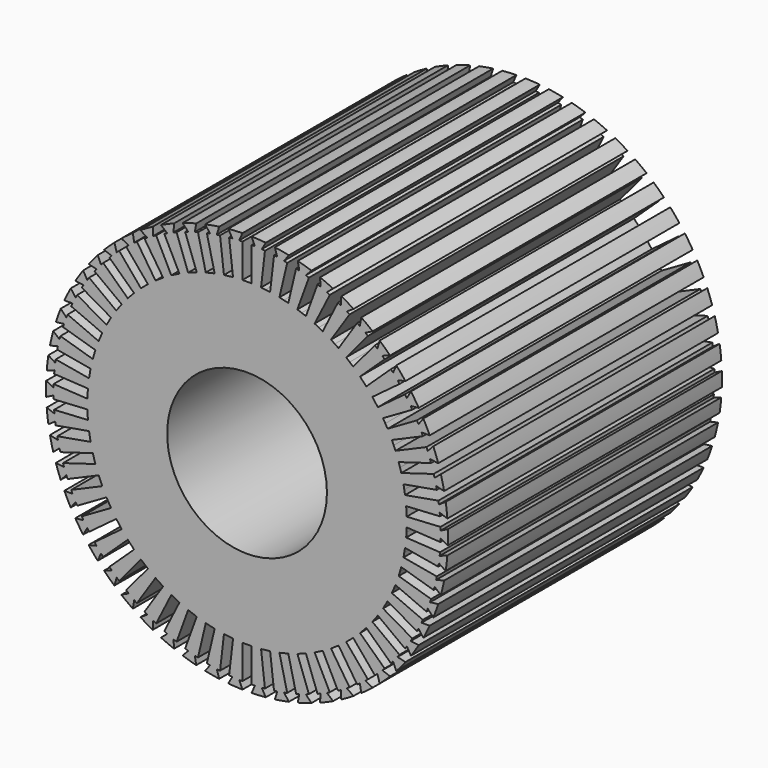
from build123d import *

# Parameters (mm, degrees)
F0_R     = 98
F1_DEPTH = 420


with BuildPart() as f1:
    # F0 (on Front) → F1 (new body)
    with BuildSketch(Plane.XZ):
        with BuildLine():
            Line((-9.6, 237.27123), (-5.6, 246.436381))
            ThreePointArc((-5.6, 246.436381), (-14.332701, 246.082961), (-23.047384, 245.420187))
            Line((-23.047384, 245.420187), (-18.010421, 236.781379))
            Line((-18.010421, 236.781379), (-21.983375, 236.317007))
            Line((-21.983375, 236.317007), (-17.173082, 195.162326))
            Line((-17.173082, 195.162326), (-22.735217, 194.512206))
            Line((-22.735217, 194.512206), (-28.297352, 193.862085))
            Line((-28.297352, 193.862085), (-33.107644, 235.016766))
            Line((-33.107644, 235.016766), (-37.080598, 234.552395))
            Line((-37.080598, 234.552395), (-34.171653, 244.119946))
            ThreePointArc((-34.171653, 244.119946), (-42.804277, 242.755111), (-51.38309, 241.085105))
            Line((-51.38309, 241.085105), (-45.377281, 233.089465))
            Line((-45.377281, 233.089465), (-49.269461, 232.167002))
            Line((-49.269461, 232.167002), (-39.713927, 191.849035))
            Line((-39.713927, 191.849035), (-45.162978, 190.557586))
            Line((-45.162978, 190.557586), (-50.61203, 189.266137))
            Line((-50.61203, 189.266137), (-60.167563, 229.584104))
            Line((-60.167563, 229.584104), (-64.059743, 228.661641))
            Line((-64.059743, 228.661641), (-62.281193, 238.502208))
            ThreePointArc((-62.281193, 238.502208), (-70.696998, 236.144415), (-79.023929, 233.489761))
            Line((-79.023929, 233.489761), (-72.130492, 226.245417))
            Line((-72.130492, 226.245417), (-75.889262, 224.877336))
            Line((-75.889262, 224.877336), (-61.717709, 185.941315))
            Line((-61.717709, 185.941315), (-66.979988, 184.026002))
            Line((-66.979988, 184.026002), (-72.242267, 182.110689))
            Line((-72.242267, 182.110689), (-86.41382, 221.046711))
            Line((-86.41382, 221.046711), (-90.17259, 219.67863))
            Line((-90.17259, 219.67863), (-89.548486, 229.659136))
            ThreePointArc((-89.548486, 229.659136), (-97.633663, 226.34027), (-105.596104, 222.736869))
            Line((-105.596104, 222.736869), (-97.908261, 216.341787))
            Line((-97.908261, 216.341787), (-101.482791, 214.546591))
            Line((-101.482791, 214.546591), (-82.886865, 177.519058))
            Line((-82.886865, 177.519058), (-87.891208, 175.005782))
            Line((-87.891208, 175.005782), (-92.895551, 172.492507))
            Line((-92.895551, 172.492507), (-111.491477, 209.52004))
            Line((-111.491477, 209.52004), (-115.066008, 207.724843))
            Line((-115.066008, 207.724843), (-115.604789, 217.710318))
            ThreePointArc((-115.604789, 217.710318), (-123.250001, 213.475262), (-130.740273, 208.971843))
            Line((-130.740273, 208.971843), (-122.361989, 203.512506))
            Line((-122.361989, 203.512506), (-125.70394, 201.31447))
            Line((-125.70394, 201.31447), (-102.935119, 166.696159))
            Line((-102.935119, 166.696159), (-107.61385, 163.618909))
            Line((-107.61385, 163.618909), (-112.292582, 160.541659))
            Line((-112.292582, 160.541659), (-135.061403, 195.15997))
            Line((-135.061403, 195.15997), (-138.403355, 192.961934))
            Line((-138.403355, 192.961934), (-140.097736, 202.817342))
            ThreePointArc((-140.097736, 202.817342), (-147.199594, 197.723367), (-154.116404, 192.380831))
            Line((-154.116404, 192.380831), (-145.160981, 187.931068))
            Line((-145.160981, 187.931068), (-148.225158, 185.359917))
            Line((-148.225158, 185.359917), (-121.591351, 153.618982))
            Line((-121.591351, 153.618982), (-125.8812, 150.019371))
            Line((-125.8812, 150.019371), (-130.171049, 146.419761))
            Line((-130.171049, 146.419761), (-156.804856, 178.160696))
            Line((-156.804856, 178.160696), (-159.869034, 175.589546))
            Line((-159.869034, 175.589546), (-162.696102, 185.181609))
            ThreePointArc((-162.696102, 185.181609), (-169.158564, 179.297602), (-175.408375, 173.188198))
            Line((-175.408375, 173.188198), (-165.996919, 169.808184))
            Line((-165.996919, 169.808184), (-168.741886, 166.898689))
            Line((-168.741886, 166.898689), (-138.603269, 138.464371))
            Line((-138.603269, 138.464371), (-142.446222, 134.391079))
            Line((-142.446222, 134.391079), (-146.289175, 130.317786))
            Line((-146.289175, 130.317786), (-176.427792, 158.752104))
            Line((-176.427792, 158.752104), (-179.172759, 155.84261))
            Line((-179.172759, 155.84261), (-183.094282, 165.041613))
            ThreePointArc((-183.094282, 165.041613), (-188.829956, 158.447145), (-194.328249, 151.653492))
            Line((-194.328249, 151.653492), (-184.588034, 149.388936))
            Line((-184.588034, 149.388936), (-186.976669, 146.180443))
            Line((-186.976669, 146.180443), (-153.740816, 121.437267))
            Line((-153.740816, 121.437267), (-157.084904, 116.945377))
            Line((-157.084904, 116.945377), (-160.428992, 112.453487))
            Line((-160.428992, 112.453487), (-193.664845, 137.196663))
            Line((-193.664845, 137.196663), (-196.053479, 133.98817))
            Line((-196.053479, 133.98817), (-201.016426, 142.669712))
            ThreePointArc((-201.016426, 142.669712), (-205.947746, 135.453962), (-210.620167, 128.067932))
            Line((-210.620167, 128.067932), (-200.682913, 126.949458))
            Line((-200.682913, 126.949458), (-202.682913, 123.485357))
            Line((-202.682913, 123.485357), (-166.799281, 102.767932))
            Line((-166.799281, 102.767932), (-169.599281, 97.91819))
            Line((-169.599281, 97.91819), (-172.399281, 93.068448))
            Line((-172.399281, 93.068448), (-208.282913, 113.785872))
            Line((-208.282913, 113.785872), (-210.282913, 110.32177))
            Line((-210.282913, 110.32177), (-216.220167, 118.368448))
            ThreePointArc((-216.220167, 118.368448), (-220.280446, 110.628997), (-224.063808, 102.750474))
            Line((-224.063808, 102.750474), (-214.0639, 102.793207))
            Line((-214.0639, 102.793207), (-215.648219, 99.120343))
            Line((-215.648219, 99.120343), (-177.602073, 82.708838))
            Line((-177.602073, 82.708838), (-179.82012, 77.566828))
            Line((-179.82012, 77.566828), (-182.038166, 72.424817))
            Line((-182.038166, 72.424817), (-220.084312, 88.836322))
            Line((-220.084312, 88.836322), (-221.668631, 85.163458))
            Line((-221.668631, 85.163458), (-228.499902, 92.466453))
            ThreePointArc((-228.499902, 92.466453), (-231.634231, 84.307965), (-234.477371, 76.043491))
            Line((-234.477371, 76.043491), (-224.550039, 77.246854))
            Line((-224.550039, 77.246854), (-225.697252, 73.414896))
            Line((-225.697252, 73.414896), (-186.003101, 61.531248))
            Line((-186.003101, 61.531248), (-187.6092, 56.166507))
            Line((-187.6092, 56.166507), (-189.215298, 50.801765))
            Line((-189.215298, 50.801765), (-228.909448, 62.685414))
            Line((-228.909448, 62.685414), (-230.056661, 58.853456))
            Line((-230.056661, 58.853456), (-237.689567, 65.314009))
            ThreePointArc((-237.689567, 65.314009), (-239.855561, 56.846811), (-241.720029, 48.308151))
            Line((-241.720029, 48.308151), (-231.999524, 50.65587))
            Line((-231.999524, 50.65587), (-232.694117, 46.716639))
            Line((-232.694117, 46.716639), (-191.888757, 39.521554))
            Line((-191.888757, 39.521554), (-192.861187, 34.00663))
            Line((-192.861187, 34.00663), (-193.833616, 28.491707))
            Line((-193.833616, 28.491707), (-234.638977, 35.686793))
            Line((-234.638977, 35.686793), (-235.333569, 31.747562))
            Line((-235.333569, 31.747562), (-243.664889, 37.278304))
            ThreePointArc((-243.664889, 37.278304), (-244.833255, 28.616903), (-245.693839, 19.919526))
            Line((-245.693839, 19.919526), (-236.311614, 23.379853))
            Line((-236.311614, 23.379853), (-236.544193, 19.38662))
            Line((-236.544193, 19.38662), (-195.179446, 16.977398))
            Line((-195.179446, 16.977398), (-195.505057, 11.386872))
            Line((-195.505057, 11.386872), (-195.830668, 5.796347))
            Line((-195.830668, 5.796347), (-237.195416, 8.205569))
            Line((-237.195416, 8.205569), (-237.427995, 4.212336))
            Line((-237.427995, 4.212336), (-246.345061, 8.738475))
            ThreePointArc((-246.345061, 8.738475), (-246.5, -1e-06), (-246.345061, -8.738476))
            Line((-246.345061, -8.738476), (-237.427995, -4.212337))
            Line((-237.427995, -4.212337), (-237.195416, -8.20557))
            Line((-237.195416, -8.20557), (-195.830668, -5.796348))
            Line((-195.830668, -5.796348), (-195.505057, -11.386873))
            Line((-195.505057, -11.386873), (-195.179446, -16.977399))
            Line((-195.179446, -16.977399), (-236.544193, -19.386621))
            Line((-236.544193, -19.386621), (-236.311614, -23.379854))
            Line((-236.311614, -23.379854), (-245.693839, -19.919528))
            ThreePointArc((-245.693839, -19.919528), (-244.833255, -28.616904), (-243.664889, -37.278306))
            Line((-243.664889, -37.278306), (-235.333569, -31.747563))
            Line((-235.333569, -31.747563), (-234.638976, -35.686794))
            Line((-234.638976, -35.686794), (-193.833616, -28.491708))
            Line((-193.833616, -28.491708), (-192.861186, -34.006631))
            Line((-192.861186, -34.006631), (-191.888757, -39.521555))
            Line((-191.888757, -39.521555), (-232.694117, -46.716641))
            Line((-232.694117, -46.716641), (-231.999524, -50.655872))
            Line((-231.999524, -50.655872), (-241.720029, -48.308153))
            ThreePointArc((-241.720029, -48.308153), (-239.85556, -56.846813), (-237.689567, -65.31401))
            Line((-237.689567, -65.31401), (-230.056661, -58.853457))
            Line((-230.056661, -58.853457), (-228.909448, -62.685415))
            Line((-228.909448, -62.685415), (-189.215297, -50.801766))
            Line((-189.215297, -50.801766), (-187.609199, -56.166508))
            Line((-187.609199, -56.166508), (-186.003101, -61.531249))
            Line((-186.003101, -61.531249), (-225.697251, -73.414898))
            Line((-225.697251, -73.414898), (-224.550039, -77.246856))
            Line((-224.550039, -77.246856), (-234.47737, -76.043493))
            ThreePointArc((-234.47737, -76.043493), (-231.634231, -84.307966), (-228.499901, -92.466455))
            Line((-228.499901, -92.466455), (-221.66863, -85.163459))
            Line((-221.66863, -85.163459), (-220.084311, -88.836324))
            Line((-220.084311, -88.836324), (-182.038166, -72.424818))
            Line((-182.038166, -72.424818), (-179.820119, -77.566829))
            Line((-179.820119, -77.566829), (-177.602073, -82.708839))
            Line((-177.602073, -82.708839), (-215.648218, -99.120344))
            Line((-215.648218, -99.120344), (-214.063899, -102.793208))
            Line((-214.063899, -102.793208), (-224.063808, -102.750475))
            ThreePointArc((-224.063808, -102.750475), (-220.280446, -110.628998), (-216.220166, -118.368449))
            Line((-216.220166, -118.368449), (-210.282912, -110.321772))
            Line((-210.282912, -110.321772), (-208.282912, -113.785873))
            Line((-208.282912, -113.785873), (-172.399281, -93.068449))
            Line((-172.399281, -93.068449), (-169.599281, -97.918191))
            Line((-169.599281, -97.918191), (-166.799281, -102.767933))
            Line((-166.799281, -102.767933), (-202.682912, -123.485358))
            Line((-202.682912, -123.485358), (-200.682912, -126.949459))
            Line((-200.682912, -126.949459), (-210.620166, -128.067933))
            ThreePointArc((-210.620166, -128.067933), (-205.947745, -135.453964), (-201.016425, -142.669713))
            Line((-201.016425, -142.669713), (-196.053479, -133.988171))
            Line((-196.053479, -133.988171), (-193.664844, -137.196664))
            Line((-193.664844, -137.196664), (-160.428991, -112.453488))
            Line((-160.428991, -112.453488), (-157.084903, -116.945378))
            Line((-157.084903, -116.945378), (-153.740815, -121.437268))
            Line((-153.740815, -121.437268), (-186.976668, -146.180444))
            Line((-186.976668, -146.180444), (-184.588034, -149.388937))
            Line((-184.588034, -149.388937), (-194.328248, -151.653493))
            ThreePointArc((-194.328248, -151.653493), (-188.829955, -158.447146), (-183.094281, -165.041614))
            Line((-183.094281, -165.041614), (-179.172758, -155.842611))
            Line((-179.172758, -155.842611), (-176.427791, -158.752105))
            Line((-176.427791, -158.752105), (-146.289175, -130.317787))
            Line((-146.289175, -130.317787), (-142.446221, -134.391079))
            Line((-142.446221, -134.391079), (-138.603268, -138.464372))
            Line((-138.603268, -138.464372), (-168.741885, -166.89869))
            Line((-168.741885, -166.89869), (-165.996918, -169.808185))
            Line((-165.996918, -169.808185), (-175.408374, -173.188199))
            ThreePointArc((-175.408374, -173.188199), (-169.158563, -179.297603), (-162.696101, -185.18161))
            Line((-162.696101, -185.18161), (-159.869033, -175.589546))
            Line((-159.869033, -175.589546), (-156.804855, -178.160697))
            Line((-156.804855, -178.160697), (-130.171048, -146.419761))
            Line((-130.171048, -146.419761), (-125.881199, -150.019372))
            Line((-125.881199, -150.019372), (-121.59135, -153.618983))
            Line((-121.59135, -153.618983), (-148.225157, -185.359918))
            Line((-148.225157, -185.359918), (-145.16098, -187.931069))
            Line((-145.16098, -187.931069), (-154.116403, -192.380831))
            ThreePointArc((-154.116403, -192.380831), (-147.199592, -197.723367), (-140.097735, -202.817343))
            Line((-140.097735, -202.817343), (-138.403354, -192.961935))
            Line((-138.403354, -192.961935), (-135.061402, -195.159971))
            Line((-135.061402, -195.159971), (-112.292581, -160.54166))
            Line((-112.292581, -160.54166), (-107.613849, -163.61891))
            Line((-107.613849, -163.61891), (-102.935118, -166.69616))
            Line((-102.935118, -166.69616), (-125.703939, -201.314471))
            Line((-125.703939, -201.314471), (-122.361988, -203.512507))
            Line((-122.361988, -203.512507), (-130.740272, -208.971843))
            ThreePointArc((-130.740272, -208.971843), (-123.25, -213.475262), (-115.604788, -217.710319))
            Line((-115.604788, -217.710319), (-115.066006, -207.724844))
            Line((-115.066006, -207.724844), (-111.491476, -209.52004))
            Line((-111.491476, -209.52004), (-92.89555, -172.492507))
            Line((-92.89555, -172.492507), (-87.891207, -175.005783))
            Line((-87.891207, -175.005783), (-82.886864, -177.519058))
            Line((-82.886864, -177.519058), (-101.48279, -214.546591))
            Line((-101.48279, -214.546591), (-97.90826, -216.341788))
            Line((-97.90826, -216.341788), (-105.596103, -222.73687))
            ThreePointArc((-105.596103, -222.73687), (-97.633662, -226.340271), (-89.548485, -229.659136))
            Line((-89.548485, -229.659136), (-90.172589, -219.678631))
            Line((-90.172589, -219.678631), (-86.413818, -221.046711))
            Line((-86.413818, -221.046711), (-72.242265, -182.11069))
            Line((-72.242265, -182.11069), (-66.979987, -184.026002))
            Line((-66.979987, -184.026002), (-61.717708, -185.941315))
            Line((-61.717708, -185.941315), (-75.889261, -224.877337))
            Line((-75.889261, -224.877337), (-72.13049, -226.245417))
            Line((-72.13049, -226.245417), (-79.023927, -233.489762))
            ThreePointArc((-79.023927, -233.489762), (-70.696996, -236.144415), (-62.281191, -238.502208))
            Line((-62.281191, -238.502208), (-64.059742, -228.661641))
            Line((-64.059742, -228.661641), (-60.167562, -229.584104))
            Line((-60.167562, -229.584104), (-50.612028, -189.266137))
            Line((-50.612028, -189.266137), (-45.162977, -190.557586))
            Line((-45.162977, -190.557586), (-39.713926, -191.849035))
            Line((-39.713926, -191.849035), (-49.26946, -232.167002))
            Line((-49.26946, -232.167002), (-45.37728, -233.089466))
            Line((-45.37728, -233.089466), (-51.383089, -241.085106))
            ThreePointArc((-51.383089, -241.085106), (-42.804275, -242.755111), (-34.171652, -244.119946))
            Line((-34.171652, -244.119946), (-37.080596, -234.552395))
            Line((-37.080596, -234.552395), (-33.107643, -235.016766))
            Line((-33.107643, -235.016766), (-28.297351, -193.862085))
            Line((-28.297351, -193.862085), (-22.735216, -194.512206))
            Line((-22.735216, -194.512206), (-17.173081, -195.162326))
            Line((-17.173081, -195.162326), (-21.983373, -236.317007))
            Line((-21.983373, -236.317007), (-18.01042, -236.781379))
            Line((-18.01042, -236.781379), (-23.047382, -245.420187))
            ThreePointArc((-23.047382, -245.420187), (-14.3327, -246.082961), (-5.6, -246.436381))
            Line((-5.6, -246.436381), (-9.6, -237.27123))
            Line((-9.6, -237.27123), (-5.6, -237.27123))
            Line((-5.6, -237.27123), (-5.6, -195.836381))
            Line((-5.6, -195.836381), (0, -195.836381))
            Line((0, -195.836381), (5.6, -195.836381))
            Line((5.6, -195.836381), (5.6, -237.27123))
            Line((5.6, -237.27123), (9.6, -237.27123))
            Line((9.6, -237.27123), (5.6, -246.436381))
            ThreePointArc((5.6, -246.436381), (14.332701, -246.082961), (23.047383, -245.420187))
            Line((23.047383, -245.420187), (18.010421, -236.781379))
            Line((18.010421, -236.781379), (21.983374, -236.317007))
            Line((21.983374, -236.317007), (17.173082, -195.162326))
            Line((17.173082, -195.162326), (22.735217, -194.512206))
            Line((22.735217, -194.512206), (28.297351, -193.862085))
            Line((28.297351, -193.862085), (33.107644, -235.016766))
            Line((33.107644, -235.016766), (37.080597, -234.552395))
            Line((37.080597, -234.552395), (34.171653, -244.119946))
            ThreePointArc((34.171653, -244.119946), (42.804276, -242.755111), (51.38309, -241.085105))
            Line((51.38309, -241.085105), (45.377281, -233.089465))
            Line((45.377281, -233.089465), (49.26946, -232.167002))
            Line((49.26946, -232.167002), (39.713927, -191.849035))
            Line((39.713927, -191.849035), (45.162978, -190.557586))
            Line((45.162978, -190.557586), (50.612029, -189.266137))
            Line((50.612029, -189.266137), (60.167563, -229.584104))
            Line((60.167563, -229.584104), (64.059742, -228.661641))
            Line((64.059742, -228.661641), (62.281192, -238.502208))
            ThreePointArc((62.281192, -238.502208), (70.696997, -236.144415), (79.023928, -233.489762))
            Line((79.023928, -233.489762), (72.130491, -226.245417))
            Line((72.130491, -226.245417), (75.889262, -224.877336))
            Line((75.889262, -224.877336), (61.717709, -185.941315))
            Line((61.717709, -185.941315), (66.979987, -184.026002))
            Line((66.979987, -184.026002), (72.242266, -182.110689))
            Line((72.242266, -182.110689), (86.413819, -221.046711))
            Line((86.413819, -221.046711), (90.17259, -219.67863))
            Line((90.17259, -219.67863), (89.548485, -229.659136))
            ThreePointArc((89.548485, -229.659136), (97.633663, -226.34027), (105.596103, -222.736869))
            Line((105.596103, -222.736869), (97.90826, -216.341788))
            Line((97.90826, -216.341788), (101.482791, -214.546591))
            Line((101.482791, -214.546591), (82.886865, -177.519058))
            Line((82.886865, -177.519058), (87.891208, -175.005782))
            Line((87.891208, -175.005782), (92.89555, -172.492507))
            Line((92.89555, -172.492507), (111.491477, -209.52004))
            Line((111.491477, -209.52004), (115.066007, -207.724843))
            Line((115.066007, -207.724843), (115.604789, -217.710318))
            ThreePointArc((115.604789, -217.710318), (123.25, -213.475262), (130.740273, -208.971843))
            Line((130.740273, -208.971843), (122.361988, -203.512507))
            Line((122.361988, -203.512507), (125.70394, -201.314471))
            Line((125.70394, -201.314471), (102.935118, -166.69616))
            Line((102.935118, -166.69616), (107.61385, -163.618909))
            Line((107.61385, -163.618909), (112.292582, -160.541659))
            Line((112.292582, -160.541659), (135.061403, -195.15997))
            Line((135.061403, -195.15997), (138.403354, -192.961934))
            Line((138.403354, -192.961934), (140.097736, -202.817342))
            ThreePointArc((140.097736, -202.817342), (147.199593, -197.723367), (154.116404, -192.380831))
            Line((154.116404, -192.380831), (145.16098, -187.931068))
            Line((145.16098, -187.931068), (148.225158, -185.359918))
            Line((148.225158, -185.359918), (121.591351, -153.618982))
            Line((121.591351, -153.618982), (125.8812, -150.019371))
            Line((125.8812, -150.019371), (130.171048, -146.419761))
            Line((130.171048, -146.419761), (156.804856, -178.160696))
            Line((156.804856, -178.160696), (159.869034, -175.589546))
            Line((159.869034, -175.589546), (162.696102, -185.18161))
            ThreePointArc((162.696102, -185.18161), (169.158564, -179.297602), (175.408375, -173.188198))
            Line((175.408375, -173.188198), (165.996919, -169.808184))
            Line((165.996919, -169.808184), (168.741886, -166.89869))
            Line((168.741886, -166.89869), (138.603269, -138.464371))
            Line((138.603269, -138.464371), (142.446222, -134.391079))
            Line((142.446222, -134.391079), (146.289175, -130.317786))
            Line((146.289175, -130.317786), (176.427792, -158.752105))
            Line((176.427792, -158.752105), (179.172758, -155.84261))
            Line((179.172758, -155.84261), (183.094281, -165.041613))
            ThreePointArc((183.094281, -165.041613), (188.829955, -158.447146), (194.328249, -151.653492))
            Line((194.328249, -151.653492), (184.588034, -149.388936))
            Line((184.588034, -149.388936), (186.976669, -146.180443))
            Line((186.976669, -146.180443), (153.740815, -121.437267))
            Line((153.740815, -121.437267), (157.084904, -116.945377))
            Line((157.084904, -116.945377), (160.428992, -112.453488))
            Line((160.428992, -112.453488), (193.664845, -137.196663))
            Line((193.664845, -137.196663), (196.053479, -133.988171))
            Line((196.053479, -133.988171), (201.016425, -142.669712))
            ThreePointArc((201.016425, -142.669712), (205.947746, -135.453963), (210.620167, -128.067933))
            Line((210.620167, -128.067933), (200.682913, -126.949459))
            Line((200.682913, -126.949459), (202.682913, -123.485357))
            Line((202.682913, -123.485357), (166.799281, -102.767933))
            Line((166.799281, -102.767933), (169.599281, -97.91819))
            Line((169.599281, -97.91819), (172.399281, -93.068448))
            Line((172.399281, -93.068448), (208.282913, -113.785872))
            Line((208.282913, -113.785872), (210.282913, -110.321771))
            Line((210.282913, -110.321771), (216.220167, -118.368448))
            ThreePointArc((216.220167, -118.368448), (220.280446, -110.628998), (224.063808, -102.750474))
            Line((224.063808, -102.750474), (214.063899, -102.793208))
            Line((214.063899, -102.793208), (215.648218, -99.120343))
            Line((215.648218, -99.120343), (177.602073, -82.708838))
            Line((177.602073, -82.708838), (179.82012, -77.566828))
            Line((179.82012, -77.566828), (182.038166, -72.424818))
            Line((182.038166, -72.424818), (220.084312, -88.836323))
            Line((220.084312, -88.836323), (221.668631, -85.163458))
            Line((221.668631, -85.163458), (228.499901, -92.466454))
            ThreePointArc((228.499901, -92.466454), (231.634231, -84.307965), (234.477371, -76.043492))
            Line((234.477371, -76.043492), (224.550039, -77.246855))
            Line((224.550039, -77.246855), (225.697252, -73.414897))
            Line((225.697252, -73.414897), (186.003101, -61.531248))
            Line((186.003101, -61.531248), (187.609199, -56.166507))
            Line((187.609199, -56.166507), (189.215298, -50.801766))
            Line((189.215298, -50.801766), (228.909448, -62.685414))
            Line((228.909448, -62.685414), (230.056661, -58.853456))
            Line((230.056661, -58.853456), (237.689567, -65.314009))
            ThreePointArc((237.689567, -65.314009), (239.855561, -56.846812), (241.720029, -48.308152))
            Line((241.720029, -48.308152), (231.999524, -50.655871))
            Line((231.999524, -50.655871), (232.694117, -46.71664))
            Line((232.694117, -46.71664), (191.888757, -39.521554))
            Line((191.888757, -39.521554), (192.861187, -34.006631))
            Line((192.861187, -34.006631), (193.833616, -28.491707))
            Line((193.833616, -28.491707), (234.638977, -35.686793))
            Line((234.638977, -35.686793), (235.333569, -31.747562))
            Line((235.333569, -31.747562), (243.664889, -37.278305))
            ThreePointArc((243.664889, -37.278305), (244.833255, -28.616903), (245.693839, -19.919527))
            Line((245.693839, -19.919527), (236.311614, -23.379853))
            Line((236.311614, -23.379853), (236.544193, -19.386621))
            Line((236.544193, -19.386621), (195.179446, -16.977398))
            Line((195.179446, -16.977398), (195.505057, -11.386873))
            Line((195.505057, -11.386873), (195.830668, -5.796347))
            Line((195.830668, -5.796347), (237.195416, -8.205569))
            Line((237.195416, -8.205569), (237.427995, -4.212337))
            Line((237.427995, -4.212337), (246.345061, -8.738475))
            ThreePointArc((246.345061, -8.738475), (246.5, 0), (246.345061, 8.738476))
            Line((246.345061, 8.738476), (237.427995, 4.212337))
            Line((237.427995, 4.212337), (237.195416, 8.20557))
            Line((237.195416, 8.20557), (195.830668, 5.796347))
            Line((195.830668, 5.796347), (195.505057, 11.386873))
            Line((195.505057, 11.386873), (195.179446, 16.977399))
            Line((195.179446, 16.977399), (236.544193, 19.386621))
            Line((236.544193, 19.386621), (236.311614, 23.379854))
            Line((236.311614, 23.379854), (245.693839, 19.919527))
            ThreePointArc((245.693839, 19.919527), (244.833255, 28.616904), (243.664889, 37.278305))
            Line((243.664889, 37.278305), (235.333569, 31.747562))
            Line((235.333569, 31.747562), (234.638976, 35.686793))
            Line((234.638976, 35.686793), (193.833616, 28.491707))
            Line((193.833616, 28.491707), (192.861187, 34.006631))
            Line((192.861187, 34.006631), (191.888757, 39.521554))
            Line((191.888757, 39.521554), (232.694117, 46.71664))
            Line((232.694117, 46.71664), (231.999524, 50.655871))
            Line((231.999524, 50.655871), (241.720029, 48.308152))
            ThreePointArc((241.720029, 48.308152), (239.855561, 56.846812), (237.689567, 65.31401))
            Line((237.689567, 65.31401), (230.056661, 58.853457))
            Line((230.056661, 58.853457), (228.909448, 62.685415))
            Line((228.909448, 62.685415), (189.215297, 50.801766))
            Line((189.215297, 50.801766), (187.609199, 56.166507))
            Line((187.609199, 56.166507), (186.003101, 61.531249))
            Line((186.003101, 61.531249), (225.697252, 73.414897))
            Line((225.697252, 73.414897), (224.550039, 77.246855))
            Line((224.550039, 77.246855), (234.477371, 76.043492))
            ThreePointArc((234.477371, 76.043492), (231.634231, 84.307966), (228.499901, 92.466454))
            Line((228.499901, 92.466454), (221.668631, 85.163459))
            Line((221.668631, 85.163459), (220.084312, 88.836323))
            Line((220.084312, 88.836323), (182.038166, 72.424818))
            Line((182.038166, 72.424818), (179.82012, 77.566828))
            Line((179.82012, 77.566828), (177.602073, 82.708838))
            Line((177.602073, 82.708838), (215.648218, 99.120344))
            Line((215.648218, 99.120344), (214.063899, 102.793208))
            Line((214.063899, 102.793208), (224.063808, 102.750475))
            ThreePointArc((224.063808, 102.750475), (220.280446, 110.628998), (216.220166, 118.368448))
            Line((216.220166, 118.368448), (210.282913, 110.321771))
            Line((210.282913, 110.321771), (208.282913, 113.785873))
            Line((208.282913, 113.785873), (172.399281, 93.068448))
            Line((172.399281, 93.068448), (169.599281, 97.918191))
            Line((169.599281, 97.918191), (166.799281, 102.767933))
            Line((166.799281, 102.767933), (202.682913, 123.485357))
            Line((202.682913, 123.485357), (200.682913, 126.949459))
            Line((200.682913, 126.949459), (210.620166, 128.067933))
            ThreePointArc((210.620166, 128.067933), (205.947745, 135.453963), (201.016425, 142.669713))
            Line((201.016425, 142.669713), (196.053479, 133.988171))
            Line((196.053479, 133.988171), (193.664844, 137.196664))
            Line((193.664844, 137.196664), (160.428991, 112.453488))
            Line((160.428991, 112.453488), (157.084903, 116.945378))
            Line((157.084903, 116.945378), (153.740815, 121.437268))
            Line((153.740815, 121.437268), (186.976668, 146.180443))
            Line((186.976668, 146.180443), (184.588034, 149.388936))
            Line((184.588034, 149.388936), (194.328249, 151.653492))
            ThreePointArc((194.328249, 151.653492), (188.829955, 158.447146), (183.094281, 165.041614))
            Line((183.094281, 165.041614), (179.172758, 155.842611))
            Line((179.172758, 155.842611), (176.427792, 158.752105))
            Line((176.427792, 158.752105), (146.289175, 130.317787))
            Line((146.289175, 130.317787), (142.446222, 134.391079))
            Line((142.446222, 134.391079), (138.603269, 138.464371))
            Line((138.603269, 138.464371), (168.741885, 166.89869))
            Line((168.741885, 166.89869), (165.996919, 169.808184))
            Line((165.996919, 169.808184), (175.408375, 173.188198))
            ThreePointArc((175.408375, 173.188198), (169.158564, 179.297603), (162.696101, 185.18161))
            Line((162.696101, 185.18161), (159.869033, 175.589546))
            Line((159.869033, 175.589546), (156.804855, 178.160697))
            Line((156.804855, 178.160697), (130.171048, 146.419761))
            Line((130.171048, 146.419761), (125.881199, 150.019372))
            Line((125.881199, 150.019372), (121.59135, 153.618982))
            Line((121.59135, 153.618982), (148.225158, 185.359918))
            Line((148.225158, 185.359918), (145.16098, 187.931068))
            Line((145.16098, 187.931068), (154.116403, 192.380831))
            ThreePointArc((154.116403, 192.380831), (147.199593, 197.723367), (140.097736, 202.817343))
            Line((140.097736, 202.817343), (138.403354, 192.961934))
            Line((138.403354, 192.961934), (135.061403, 195.15997))
            Line((135.061403, 195.15997), (112.292581, 160.541659))
            Line((112.292581, 160.541659), (107.61385, 163.61891))
            Line((107.61385, 163.61891), (102.935118, 166.69616))
            Line((102.935118, 166.69616), (125.703939, 201.314471))
            Line((125.703939, 201.314471), (122.361988, 203.512507))
            Line((122.361988, 203.512507), (130.740272, 208.971843))
            ThreePointArc((130.740272, 208.971843), (123.25, 213.475262), (115.604789, 217.710319))
            Line((115.604789, 217.710319), (115.066007, 207.724844))
            Line((115.066007, 207.724844), (111.491476, 209.52004))
            Line((111.491476, 209.52004), (92.89555, 172.492507))
            Line((92.89555, 172.492507), (87.891207, 175.005782))
            Line((87.891207, 175.005782), (82.886865, 177.519058))
            Line((82.886865, 177.519058), (101.482791, 214.546591))
            Line((101.482791, 214.546591), (97.90826, 216.341788))
            Line((97.90826, 216.341788), (105.596103, 222.736869))
            ThreePointArc((105.596103, 222.736869), (97.633662, 226.34027), (89.548485, 229.659136))
            Line((89.548485, 229.659136), (90.172589, 219.67863))
            Line((90.172589, 219.67863), (86.413819, 221.046711))
            Line((86.413819, 221.046711), (72.242266, 182.11069))
            Line((72.242266, 182.11069), (66.979987, 184.026002))
            Line((66.979987, 184.026002), (61.717708, 185.941315))
            Line((61.717708, 185.941315), (75.889261, 224.877337))
            Line((75.889261, 224.877337), (72.130491, 226.245417))
            Line((72.130491, 226.245417), (79.023928, 233.489762))
            ThreePointArc((79.023928, 233.489762), (70.696997, 236.144415), (62.281192, 238.502208))
            Line((62.281192, 238.502208), (64.059742, 228.661641))
            Line((64.059742, 228.661641), (60.167563, 229.584104))
            Line((60.167563, 229.584104), (50.612029, 189.266137))
            Line((50.612029, 189.266137), (45.162978, 190.557586))
            Line((45.162978, 190.557586), (39.713926, 191.849035))
            Line((39.713926, 191.849035), (49.26946, 232.167002))
            Line((49.26946, 232.167002), (45.37728, 233.089466))
            Line((45.37728, 233.089466), (51.383089, 241.085106))
            ThreePointArc((51.383089, 241.085106), (42.804276, 242.755111), (34.171652, 244.119946))
            Line((34.171652, 244.119946), (37.080597, 234.552395))
            Line((37.080597, 234.552395), (33.107643, 235.016766))
            Line((33.107643, 235.016766), (28.297351, 193.862085))
            Line((28.297351, 193.862085), (22.735216, 194.512206))
            Line((22.735216, 194.512206), (17.173081, 195.162326))
            Line((17.173081, 195.162326), (21.983374, 236.317007))
            Line((21.983374, 236.317007), (18.01042, 236.781379))
            Line((18.01042, 236.781379), (23.047383, 245.420187))
            ThreePointArc((23.047383, 245.420187), (14.3327, 246.082961), (5.6, 246.436381))
            Line((5.6, 246.436381), (9.6, 237.27123))
            Line((9.6, 237.27123), (5.6, 237.27123))
            Line((5.6, 237.27123), (5.6, 195.836381))
            Line((5.6, 195.836381), (0, 195.836381))
            Line((0, 195.836381), (-5.6, 195.836381))
            Line((-5.6, 195.836381), (-5.6, 237.27123))
            Line((-5.6, 237.27123), (-9.6, 237.27123))
        make_face()
        Circle(F0_R, mode=Mode.SUBTRACT)
    extrude(amount=F1_DEPTH)


solid = f1.part
